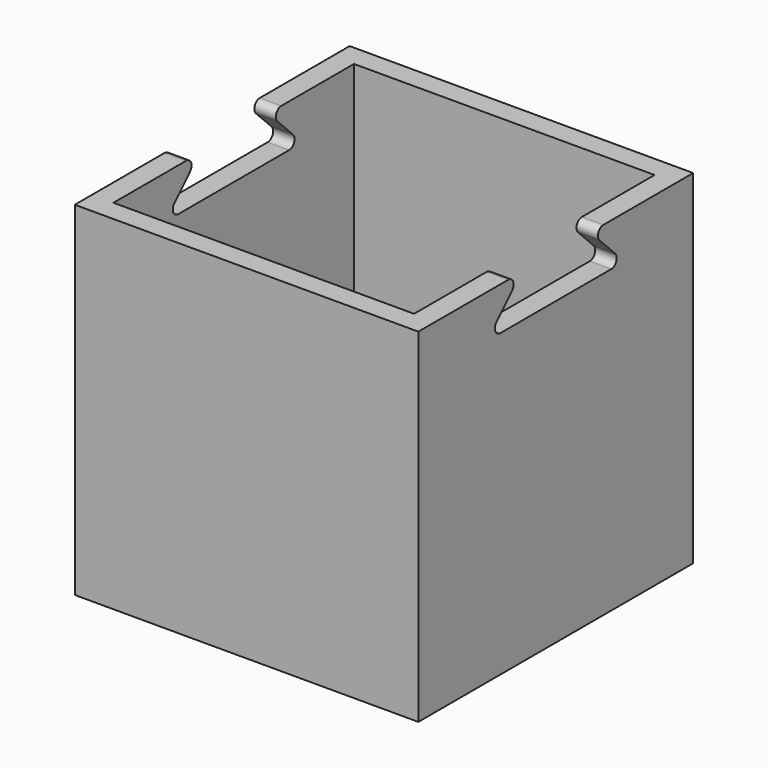
from build123d import *

# Parameters (mm, degrees)
F0_W      = 25.4
F0_H      = 25.4
F1_DEPTH  = 1.5875
F2_W      = 25.4
F2_H      = 25.4
F3_DEPTH  = 1.5875
F4_W      = 25.4
F4_H      = 25.4
F5_DEPTH  = 1.5875
F7_DEPTH  = 1.5875
F9_DEPTH  = 1.5875
F10_DEPTH = 1.5875
F11_R     = 0.508
F12_R     = 0.508
F13_R     = 0.508
F14_R     = 0.508
F15_R     = 0.508
F16_R     = 0.508
F17_R     = 0.508


with BuildPart() as f1:
    # F0 (on Top) → F1 (new body)
    with BuildSketch(Plane.XY):
        with Locations((5.530645, -7.55323)):
            Rectangle(F0_W, F0_H)
    extrude(amount=F1_DEPTH)

    # F2 (on face) → F3 (join)
    with BuildSketch(Plane.XZ.offset(20.25323)):
        with Locations((5.530645, 12.7)):
            Rectangle(F2_W, F2_H)
    extrude(amount=-F3_DEPTH)

    # F4 (on face) → F5 (join)
    with BuildSketch(Plane(origin=(0, 5.14677, 0), x_dir=(-1, 0, 0), z_dir=(0, 1, 0))):
        with Locations((-5.530645, 12.7)):
            Rectangle(F4_W, F4_H)
    extrude(amount=-F5_DEPTH)

    # F6 (on face) → F7 (join)
    with BuildSketch(Plane.YZ.offset(18.230645)):
        Polygon((-20.25323, 25.4), (-20.25323, 0), (5.14677, 0), (5.14677, 25.4), (-4.37823, 25.4), (-1.20323, 22.225), (-13.90323, 22.225), (-10.72823, 25.4), align=None)
    extrude(amount=-F7_DEPTH)

    # F6 (on face) → F9 (join)
    with BuildSketch(Plane.YZ.offset(18.230645)):
        Polygon((-20.25323, 25.4), (-20.25323, 0), (5.14677, 0), (5.14677, 25.4), (-4.37823, 25.4), (-1.20323, 22.225), (-13.90323, 22.225), (-10.72823, 25.4), align=None)
    extrude(amount=-F9_DEPTH)

    # F8 (on face) → F10 (join)
    with BuildSketch(Plane(origin=(-7.169355, 0, 0), x_dir=(0, -1, 0), z_dir=(-1, 0, 0))):
        Polygon((4.37823, 25.4), (-3.55927, 25.4), (-3.55927, 1.5875), (18.66573, 1.5875), (18.66573, 25.4), (10.72823, 25.4), (13.90323, 22.225), (1.20323, 22.225), align=None)
    extrude(amount=-F10_DEPTH)

    # F11
    f11_edges = [f1.edges().sort_by_distance(p)[0] for p in [
        (-6.375605, -1.20323, 22.225),
    ]]
    fillet(f11_edges, radius=F11_R)

    # F12
    f12_edges = [f1.edges().sort_by_distance(p)[0] for p in [
        (-6.375605, -13.90323, 22.225),
    ]]
    fillet(f12_edges, radius=F12_R)

    # F13
    f13_edges = [f1.edges().sort_by_distance(p)[0] for p in [
        (17.436895, -13.90323, 22.225),
    ]]
    fillet(f13_edges, radius=F13_R)

    # F14
    f14_edges = [f1.edges().sort_by_distance(p)[0] for p in [
        (17.436895, -1.20323, 22.225),
    ]]
    fillet(f14_edges, radius=F14_R)

    # F15
    f15_edges = [f1.edges().sort_by_distance(p)[0] for p in [
        (17.436895, -4.37823, 25.4),
    ]]
    fillet(f15_edges, radius=F15_R)

    # F16
    f16_edges = [f1.edges().sort_by_distance(p)[0] for p in [
        (17.436895, -10.72823, 25.4),
    ]]
    fillet(f16_edges, radius=F16_R)

    # F17
    f17_edges = [f1.edges().sort_by_distance(p)[0] for p in [
        (-6.375605, -4.37823, 25.4),
        (-6.375605, -10.72823, 25.4),
    ]]
    fillet(f17_edges, radius=F17_R)


solid = f1.part
